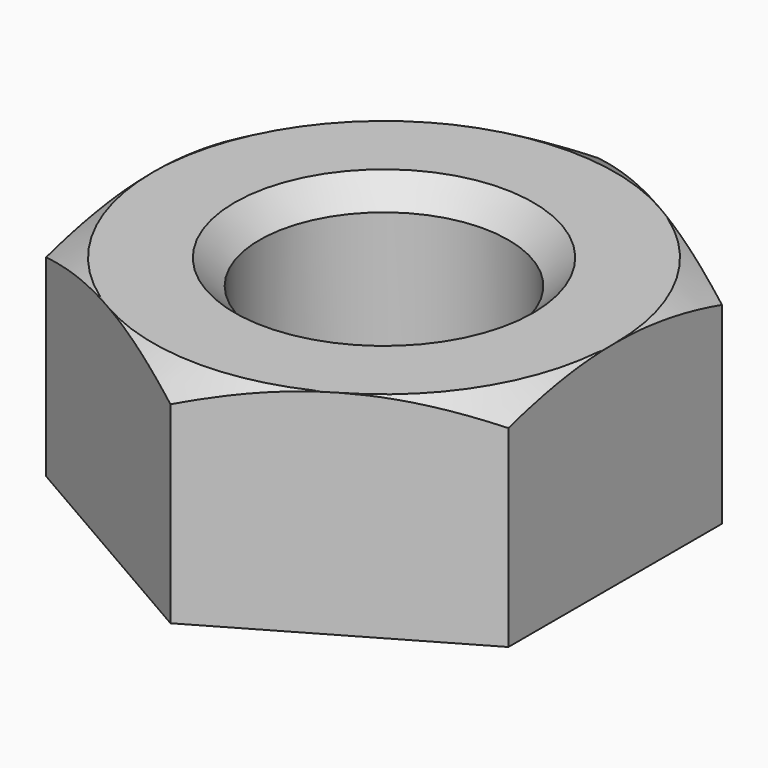
from build123d import *

# Parameters (mm, degrees)
F1_DEPTH = 6
F2_R     = 3.5
F3_DEPTH = 6.001
F6_SIZE  = 0.7


with BuildPart() as f1:
    # F0 (on Top) → F1 (new body)
    with BuildSketch(Plane.XY):
        Polygon((6.5, -3.752777), (6.5, 3.752777), (0, 7.505553), (-6.5, 3.752777), (-6.5, -3.752777), (0, -7.505553), align=None)
    extrude(amount=F1_DEPTH)

    # F2 (on face) → F3 (cut, through all)
    with BuildSketch(Plane.XY.offset(6)):
        Circle(F2_R)
    extrude(amount=-F3_DEPTH, mode=Mode.SUBTRACT)

    # F4 (on Front) → F5 (revolve, cut)
    with BuildSketch(Plane.XZ):
        Polygon((10.708706, 6), (6.5, 6), (10.708706, 3.570103), align=None)
    revolve(axis=Axis((0, 0, 2.326309), (0, 0, 1)), mode=Mode.SUBTRACT)

    # F6
    f6_edges = [f1.edges().sort_by_distance(p)[0] for p in [
        (-3.5, 0, 6),
        (-3.5, 0, 0),
    ]]
    chamfer(f6_edges, length=F6_SIZE)


solid = f1.part
